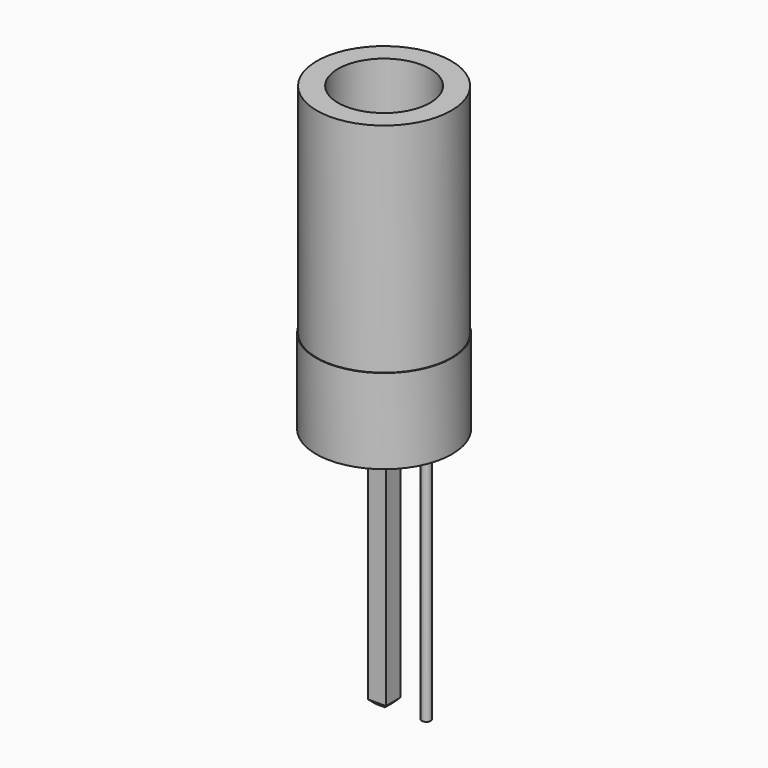
from build123d import *

# Parameters (mm, degrees)
SKETCH_R      = 2.25
PAD_DEPTH     = 2.8
SKETCH002_W   = 0.6
SKETCH002_H   = 0.6
PAD002_DEPTH  = 8
CHAMFER_SIZE  = 0.15
SKETCH003_R   = 0.15
PAD003_DEPTH  = 8
SKETCH004_R   = 2.225
SKETCH004_R_2 = 1.525
PAD004_DEPTH  = 7.2


with BuildPart() as part:
    # Sketch → Pad (new body)
    with BuildSketch(Plane.XY):
        Circle(SKETCH_R)
    extrude(amount=PAD_DEPTH)

    # Sketch002 → Pad002 (join)
    with BuildSketch(Plane(origin=(0, 0, 0), x_dir=(1, 0, 0), z_dir=(0, 0, -1))):
        Rectangle(SKETCH002_W, SKETCH002_H)
    extrude(amount=PAD002_DEPTH)

    # Chamfer
    chamfer_edges = [part.edges().sort_by_distance(p)[0] for p in [
        (0, -0.3, -8),
        (0.3, 0, -8),
        (0, 0.3, -8),
        (-0.3, 0, -8),
    ]]
    chamfer(chamfer_edges, length=CHAMFER_SIZE)

    # Sketch003 (on Face4 of Chamfer) → Pad003 (join)
    with BuildSketch(Plane(origin=(0, 0, 0), x_dir=(1, 0, 0), z_dir=(0, 0, -1))):
        with Locations((1.4, 0)):
            Circle(SKETCH003_R)
    extrude(amount=PAD003_DEPTH)

    # Sketch004 (on Face13 of Pad003) → Pad004 (join)
    with BuildSketch(Plane.XY.offset(2.8)):
        Circle(SKETCH004_R)
        Circle(SKETCH004_R_2, mode=Mode.SUBTRACT)
    extrude(amount=PAD004_DEPTH)


solid = part.part
